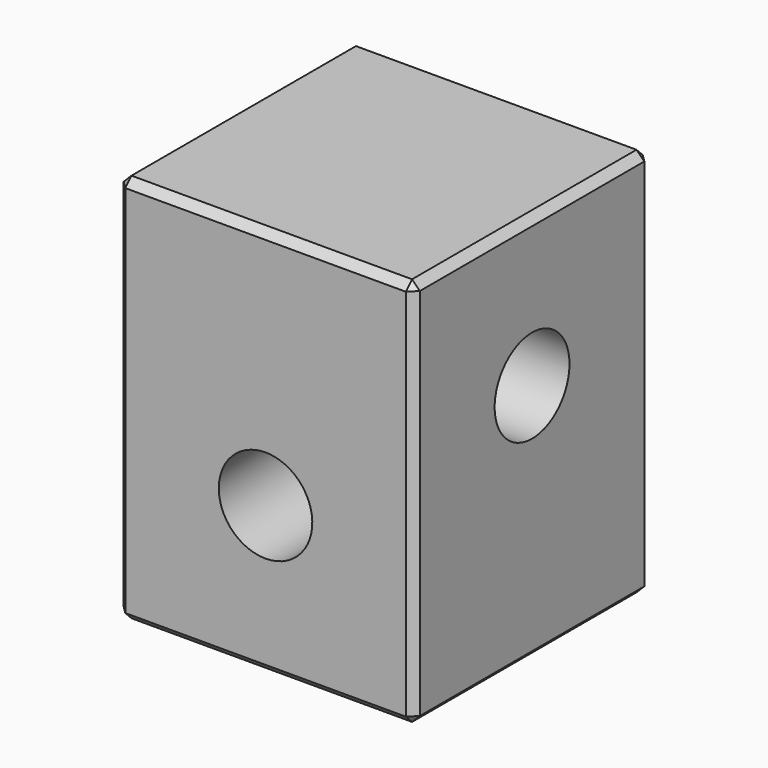
from build123d import *

# Parameters (mm, degrees)
SKETCH_W      = 38
SKETCH_H      = 50
PAD_DEPTH     = 19
SKETCH001_R   = 6
HOLE_DEPTH    = 38.001
SKETCH002_R   = 6
HOLE001_DEPTH = 38.001
CHAMFER_SIZE  = 1


with BuildPart() as part:
    # Sketch → Pad (new body, symmetric)
    with BuildSketch(Plane.YZ):
        Rectangle(SKETCH_W, SKETCH_H)
    extrude(amount=PAD_DEPTH, both=True)

    # Sketch001 (on Face6 of Pad) → Hole (cut, through all)
    with BuildSketch(Plane.YZ.offset(19)):
        with Locations((0, 6)):
            Circle(SKETCH001_R)
    extrude(amount=-HOLE_DEPTH, mode=Mode.SUBTRACT)

    # Sketch002 (on Face2 of Hole) → Hole001 (cut, through all)
    with BuildSketch(Plane(origin=(0, -19, 0), x_dir=(0, 0, -1), z_dir=(0, -1, 0))):
        with Locations((6, 0)):
            Circle(SKETCH002_R)
    extrude(amount=-HOLE001_DEPTH, mode=Mode.SUBTRACT)

    # Chamfer
    chamfer_edges = [part.edges().sort_by_distance(p)[0] for p in [
        (-19, 0, -25),
        (0, -19, -25),
        (19, 0, -25),
        (0, 19, -25),
        (-19, -19, 0),
        (0, -19, 25),
        (-19, 0, 25),
        (-19, 19, 0),
        (0, 19, 25),
        (19, 19, 0),
        (19, -19, 0),
        (19, 0, 25),
    ]]
    chamfer(chamfer_edges, length=CHAMFER_SIZE)


solid = part.part
